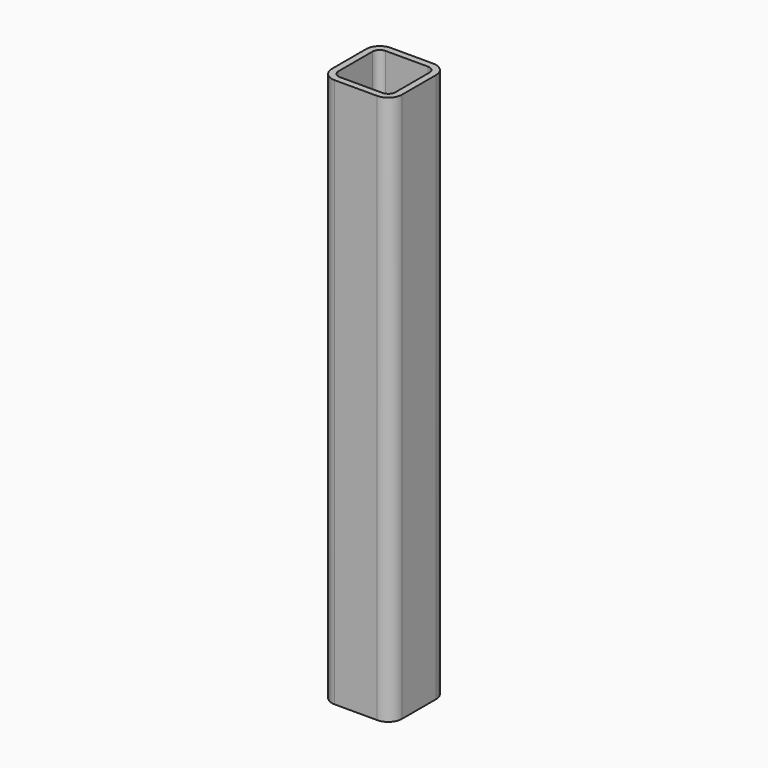
from build123d import *

# Parameters (mm, degrees)
PAD004_DEPTH = 398.4


with BuildPart() as part:
    # Sketch004 → Pad004 (new body)
    with BuildSketch(Plane.XY):
        with BuildLine():
            Line((10, 0), (40.8, 0))
            ThreePointArc((40.8, 0), (47.871068, 2.928932), (50.8, 10))
            Line((50.8, 10), (50.8, 40.8))
            ThreePointArc((50.8, 40.8), (47.871068, 47.871068), (40.8, 50.8))
            Line((40.8, 50.8), (10, 50.8))
            ThreePointArc((10, 50.8), (2.928932, 47.871068), (0, 40.8))
            Line((0, 40.8), (0, 10))
            ThreePointArc((0, 10), (2.928932, 2.928932), (10, 0))
        make_face()
        with BuildLine():
            Line((10, 46.0375), (40.8, 46.0375))
            ThreePointArc((46.0375, 40.8), (44.503472, 44.503472), (40.8, 46.0375))
            Line((46.0375, 40.8), (46.0375, 10))
            ThreePointArc((40.8, 4.7625), (44.503472, 6.296528), (46.0375, 10))
            Line((40.8, 4.7625), (10, 4.7625))
            ThreePointArc((4.7625, 10), (6.296528, 6.296528), (10, 4.7625))
            Line((4.7625, 10), (4.7625, 40.8))
            ThreePointArc((10, 46.0375), (6.296528, 44.503472), (4.7625, 40.8))
        make_face(mode=Mode.SUBTRACT)
    extrude(amount=PAD004_DEPTH)


solid = part.part
